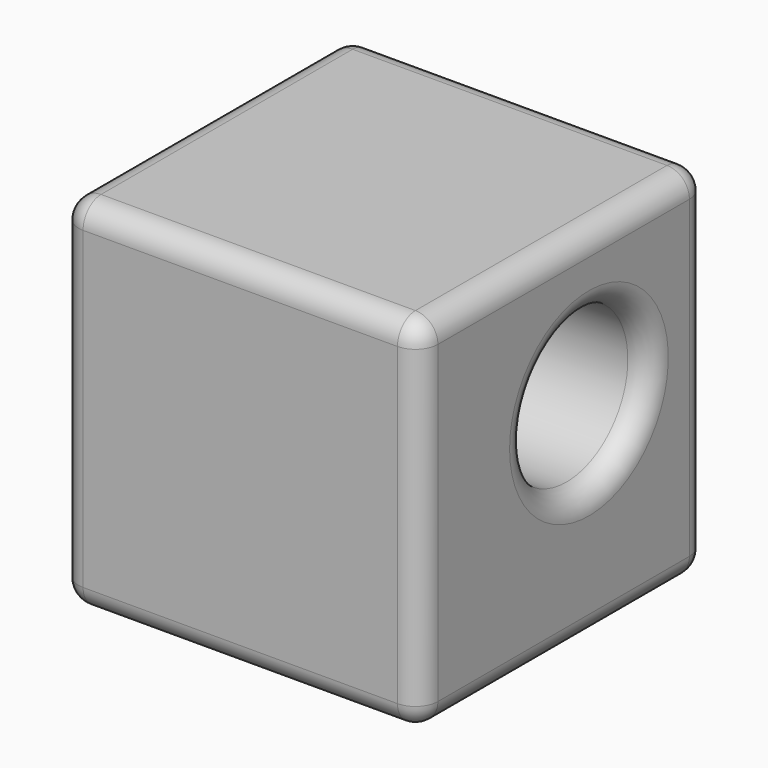
from build123d import *

# Parameters (mm, degrees)
F0_W     = 80
F0_H     = 80
F1_DEPTH = 80
F2_R     = 17.08616193
F3_DEPTH = 80.001
F4_R     = 5


with BuildPart() as f1:
    # F0 (on Top) → F1 (new body)
    with BuildSketch(Plane.XY):
        with Locations((2.2027976811, 9.5911924709)):
            Rectangle(F0_W, F0_H)
    extrude(amount=F1_DEPTH)

    # F2 (on face) → F3 (cut, through all)
    with BuildSketch(Plane(origin=(-37.7972023189, 0, 0), x_dir=(0, -1, 0), z_dir=(-1, 0, 0))):
        with Locations((-16.629083944, 46.3755141786)):
            Circle(F2_R)
    extrude(amount=-F3_DEPTH, mode=Mode.SUBTRACT)

    # F4
    f4_edges = [f1.edges().sort_by_distance(p)[0] for p in [
        (-37.797202, 49.591192, 40),
        (-37.797202, 9.591192, 80),
        (-37.797202, -30.408808, 40),
        (-37.797202, 9.591192, 0),
        (-37.797202, 33.715246, 46.375514),
        (42.202798, 49.591192, 40),
        (2.202798, 49.591192, 0),
        (2.202798, 49.591192, 80),
        (42.202798, -30.408808, 40),
        (42.202798, 9.591192, 80),
        (42.202798, 9.591192, 0),
        (42.202798, 33.715246, 46.375514),
        (2.202798, -30.408808, 0),
        (2.202798, -30.408808, 80),
    ]]
    fillet(f4_edges, radius=F4_R)


solid = f1.part
